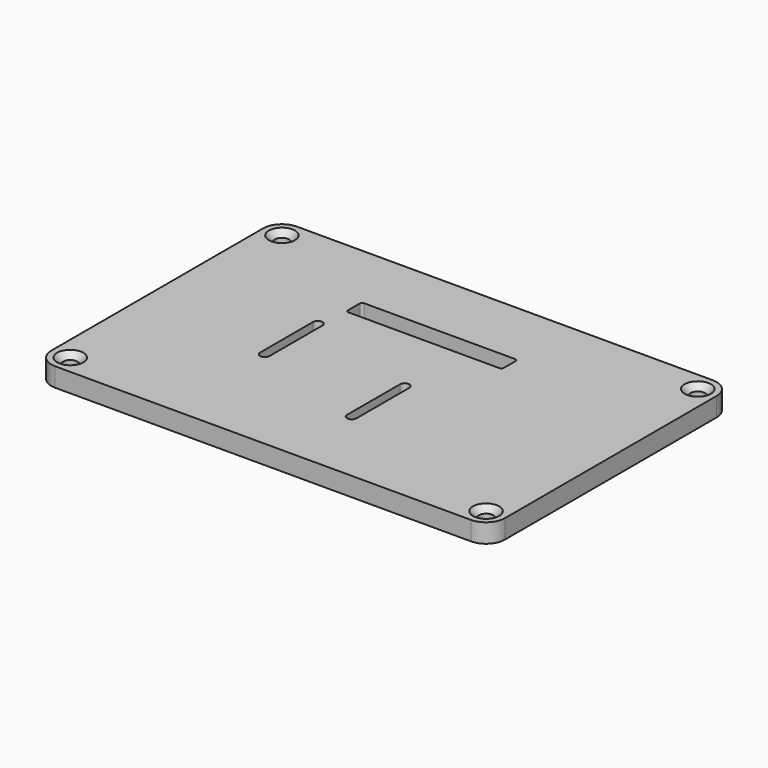
from build123d import *

# Parameters (mm, degrees)
F0_R     = 2.413
F1_DEPTH = 6.35
F2_SIZE  = 1.9812


with BuildPart() as f1:
    # F0 (on Top) → F1 (new body)
    with BuildSketch(Plane.XY):
        with BuildLine():
            ThreePointArc((-72.451897, -44.454429), (-70.592025, -48.944557), (-66.101897, -50.804429))
            Line((-66.101897, -50.804429), (73.598103, -50.804429))
            ThreePointArc((73.598103, -50.804429), (78.088231, -48.944557), (79.948103, -44.454429))
            Line((79.948103, -44.454429), (79.948103, 44.445571))
            ThreePointArc((79.948103, 44.445571), (78.088231, 48.935699), (73.598103, 50.795571))
            Line((73.598103, 50.795571), (-66.101897, 50.795571))
            ThreePointArc((-66.101897, 50.795571), (-70.592025, 48.935699), (-72.451897, 44.445571))
            Line((-72.451897, 44.445571), (-72.451897, -44.454429))
        make_face()
        with Locations((-66.101897, -44.454429)):
            Circle(F0_R, mode=Mode.SUBTRACT)
        with Locations((73.598103, -44.454429)):
            Circle(F0_R, mode=Mode.SUBTRACT)
        with BuildLine():
            ThreePointArc((10.928676, -2.263215), (12.523538, -0.683077), (14.103676, -2.27794))
            Line((14.103676, -2.27794), (14.103676, -24.50294))
            ThreePointArc((14.103676, -24.50294), (12.508813, -26.083077), (10.928676, -24.488215))
            Line((10.928676, -24.488215), (10.928676, -2.263215))
        make_face(mode=Mode.SUBTRACT)
        with BuildLine():
            ThreePointArc((-28.991299, 11.1125), (-27.403799, 12.7), (-25.816299, 11.1125))
            Line((-25.816299, 11.1125), (-25.816299, -11.1125))
            ThreePointArc((-25.816299, -11.1125), (-27.403799, -12.7), (-28.991299, -11.1125))
            Line((-28.991299, -11.1125), (-28.991299, 11.1125))
        make_face(mode=Mode.SUBTRACT)
        with BuildLine():
            ThreePointArc((-25.986542, 26.997524), (-25.754058, 27.55879), (-25.192792, 27.791274))
            Line((-25.192792, 27.791274), (25.607208, 27.791274))
            ThreePointArc((25.607208, 27.791274), (26.168474, 27.55879), (26.400958, 26.997524))
            Line((26.400958, 26.997524), (26.400958, 21.981024))
            ThreePointArc((26.400958, 21.981024), (26.168474, 21.419758), (25.607208, 21.187274))
            Line((25.607208, 21.187274), (-25.192792, 21.187274))
            ThreePointArc((-25.192792, 21.187274), (-25.754058, 21.419758), (-25.986542, 21.981024))
            Line((-25.986542, 21.981024), (-25.986542, 26.997524))
        make_face(mode=Mode.SUBTRACT)
        with Locations((-66.101897, 44.445571)):
            Circle(F0_R, mode=Mode.SUBTRACT)
        with Locations((73.598103, 44.445571)):
            Circle(F0_R, mode=Mode.SUBTRACT)
    extrude(amount=F1_DEPTH)

    # F2
    f2_edges = [f1.edges().sort_by_distance(p)[0] for p in [
        (-68.514897, -44.454429, 6.35),
        (71.185103, -44.454429, 6.35),
        (71.185103, 44.445571, 6.35),
        (-68.514897, 44.445571, 6.35),
    ]]
    chamfer(f2_edges, length=F2_SIZE)


solid = f1.part
